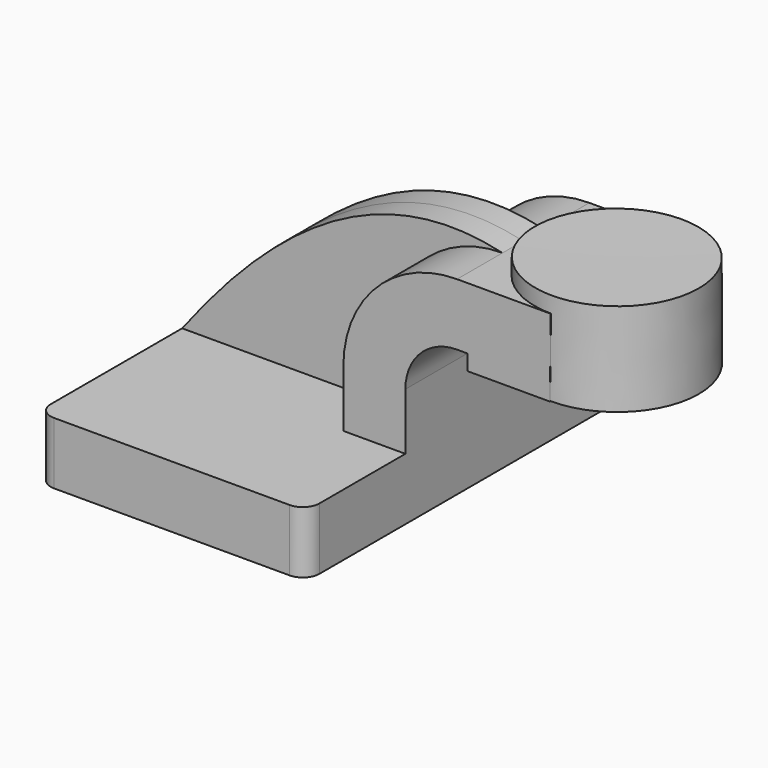
from build123d import *

# Parameters (mm, degrees)
F1_DEPTH = 63.5
F2_DEPTH = 25.4
F3_DEPTH = 7.9375
F5_R     = 5.08


with BuildPart() as f1:
    # F0 (on Front) → F1 (new body, symmetric)
    with BuildSketch(Plane.XZ):
        Polygon((41.275, -9.525), (41.275, 9.525), (22.225, 9.525), (-41.275, 9.525), (-41.275, -9.525), align=None)
    extrude(amount=F1_DEPTH, both=True)

    # F0 (on Front) → F2 (join, symmetric)
    with BuildSketch(Plane.XZ):
        with BuildLine():
            Line((22.225, 9.525), (41.275, 9.525))
            Line((41.275, 9.525), (41.275, 27.0002))
            ThreePointArc((41.275, 27.0002), (45.9246798487, 38.2255201513), (57.15, 42.8752))
            Line((57.15, 42.8752), (60.325, 42.8752))
            Line((60.325, 42.8752), (60.325, 61.9252))
            Line((60.325, 61.9252), (57.15, 61.9252))
            ThreePointArc((57.15, 61.9252), (32.4542956671, 51.6959043329), (22.225, 27.0002))
            Line((22.225, 27.0002), (22.225, 9.525))
        make_face()
        Polygon((60.325, 61.9252), (60.325, 42.8752), (60.325, 38.1), (85.725, 38.1), (85.8855976067, 61.9252), align=None)
    extrude(amount=F2_DEPTH, both=True)

    # F0 (on Front) → F3 (join, symmetric)
    with BuildSketch(Plane.XZ):
        with BuildLine():
            Line((-41.275, 9.525), (22.225, 9.525))
            Line((22.225, 9.525), (22.225, 27.0002))
            ThreePointArc((22.225, 27.0002), (32.4542956671, 51.6959043329), (57.15, 61.9252))
            add(Edge.make_bspline(
                [(-41.275, 9.525), (-11.5636568516, 48.5677458346), (20.2601272613, 70.6769004464), (57.15, 61.9252)],
                knots=[0, 0, 0, 0, 111.5045361635, 111.5045361635, 111.5045361635, 111.5045361635], degree=3))
        make_face()
    extrude(amount=F3_DEPTH, both=True)

    # F0 (on Front) → F4 (revolve)
    with BuildSketch(Plane.XZ):
        Polygon((85.9176144004, 66.675), (85.8855976067, 61.9252), (85.725, 38.1), (111.125, 38.1), (111.125, 66.675), align=None)
    revolve(axis=Axis((85.8213072002, 0, 52.3875), (0.0067405083, 0, 0.9999772825)))

    # F5
    f5_edges = [f1.edges().sort_by_distance(p)[0] for p in [
        (41.275, -63.5, 0),
        (-41.275, -63.5, 0),
        (41.275, 63.5, 0),
        (-41.275, 63.5, 0),
    ]]
    fillet(f5_edges, radius=F5_R)


solid = f1.part
